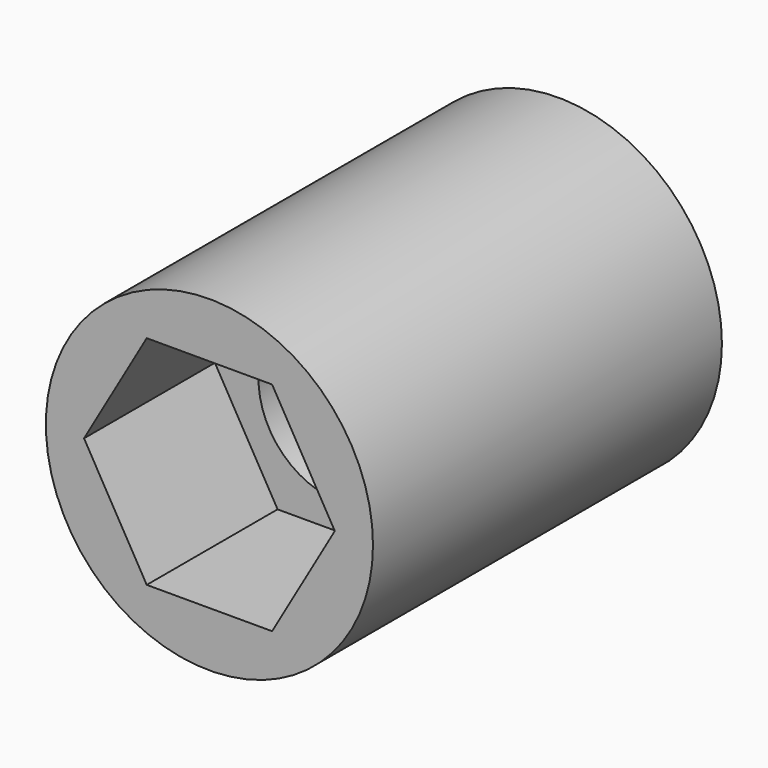
from build123d import *

# Parameters (mm, degrees)
F0_R     = 9.525
F1_DEPTH = 25.4
F3_R     = 4.7625
F4_DEPTH = 25.401
F2_W     = 9.525
F2_H     = 9.525
F5_DEPTH = 11.0998
F7_DEPTH = 9.525


with BuildPart() as f1:
    # F0 (on Front) → F1 (new body)
    with BuildSketch(Plane.XZ):
        Circle(F0_R)
        Circle(F0_R)
    extrude(amount=F1_DEPTH)

    # F3 (on Front) → F4 (cut, through all)
    with BuildSketch(Plane.XZ):
        Circle(F3_R)
    extrude(amount=F4_DEPTH, mode=Mode.SUBTRACT)

    # F2 (on Front) → F5 (cut)
    with BuildSketch(Plane.XZ):
        Rectangle(F2_W, F2_H)
    extrude(amount=F5_DEPTH, mode=Mode.SUBTRACT)

    # F6 (on face) → F7 (cut)
    with BuildSketch(Plane.XZ.offset(25.4)):
        Polygon((3.65125, 6.324151), (-3.65125, 6.324151), (-7.3025, 0), (-3.65125, -6.324151), (3.65125, -6.324151), (7.3025, 0), align=None)
    extrude(amount=-F7_DEPTH, mode=Mode.SUBTRACT)


solid = f1.part
